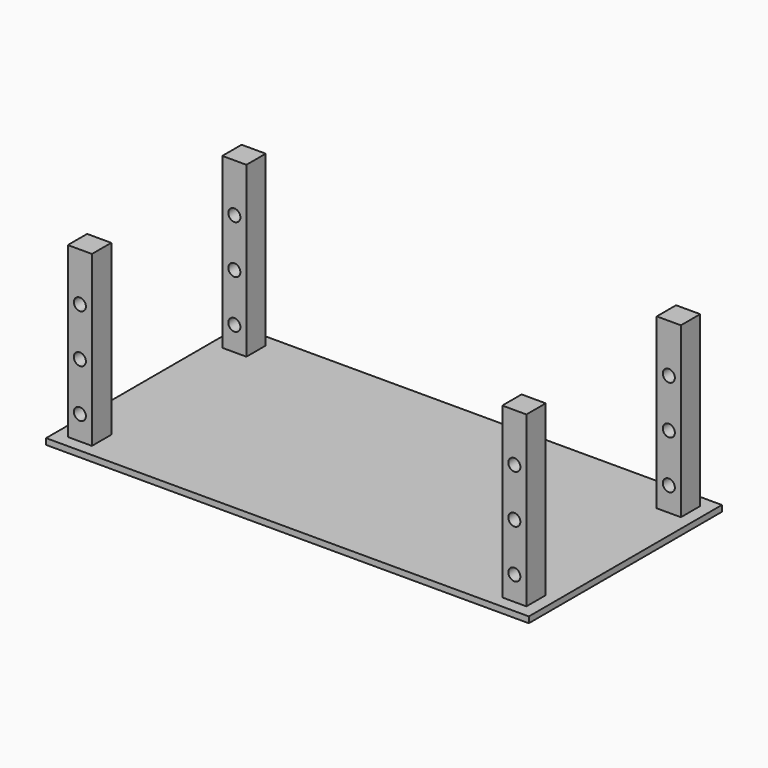
from build123d import *

# Parameters (mm, degrees)
F0_W     = 2000
F0_H     = 1000
F1_DEPTH = 25
F2_W     = 100
F2_H     = 100
F3_DEPTH = 700
F4_R     = 25
F5_DEPTH = 900


with BuildPart() as f1:
    # F0 (on Top) → F1 (new body)
    with BuildSketch(Plane.XY):
        Rectangle(F0_W, F0_H)
    extrude(amount=F1_DEPTH)

    # F2 (on face) → F3 (join)
    with BuildSketch(Plane.XY.offset(25)):
        with Locations((-900, -400)):
            Rectangle(F2_W, F2_H)
        with Locations((900, -400)):
            Rectangle(F2_W, F2_H)
        with Locations((900, 400)):
            Rectangle(F2_W, F2_H)
        with Locations((-900, 400)):
            Rectangle(F2_W, F2_H)
    extrude(amount=F3_DEPTH)

    # F4 (on face) → F5 (cut)
    with BuildSketch(Plane(origin=(0, 450, 0), x_dir=(-1, 0, 0), z_dir=(0, 1, 0))):
        with Locations((-900, 525)):
            Circle(F4_R)
        with Locations((-900, 325)):
            Circle(F4_R)
        with Locations((-900, 125)):
            Circle(F4_R)
        with Locations((900, 525)):
            Circle(F4_R)
        with Locations((900, 325)):
            Circle(F4_R)
        with Locations((900, 125)):
            Circle(F4_R)
    extrude(amount=-F5_DEPTH, mode=Mode.SUBTRACT)


solid = f1.part
